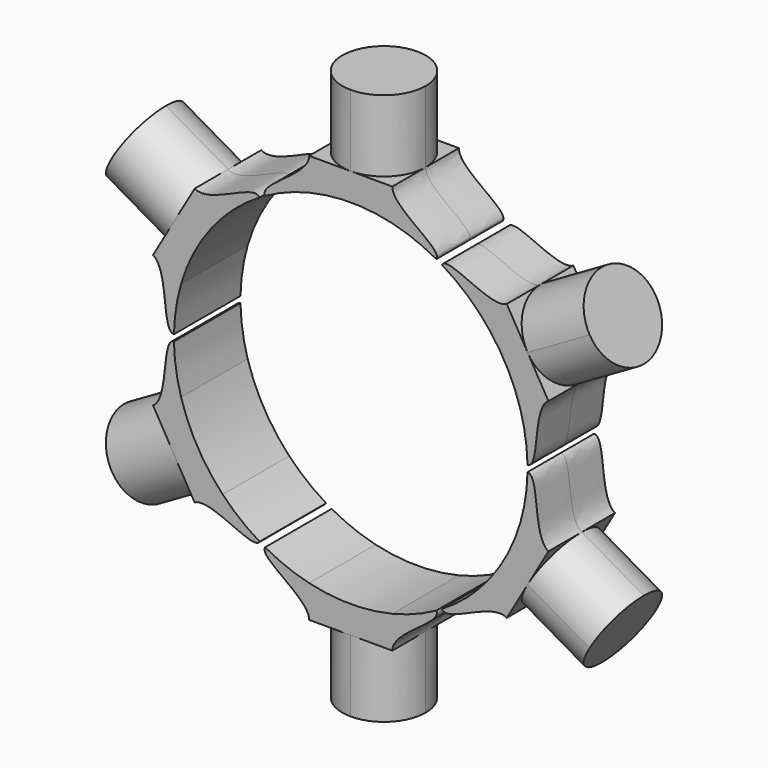
from build123d import *

# Parameters (mm, degrees)
F1_DEPTH  = 6
F3_DEPTH  = 10.323
F6_DEPTH  = 10.323
F8_DEPTH  = 10.323
F9_R      = 6
F10_DEPTH = 10.323
F11_R     = 6
F12_DEPTH = 10.323


with BuildPart() as f1:
    # F0 (on Front) → F1 (new body, symmetric)
    with BuildSketch(Plane.XZ):
        with BuildLine():
            ThreePointArc((-6, 24.7840674628), (0, 25.5), (6, 24.7840674628))
            Line((6, 24.7840674628), (6, 29.4606685638))
            Line((6, 29.4606685638), (-6, 29.4606685638))
            Line((-6, 29.4606685638), (-6, 24.7840674628))
        make_face()
        with BuildLine():
            ThreePointArc((6, 24.7840674628), (9.2589564923, 23.7596659209), (12.3517402257, 22.3088438382))
            add(Edge.make_bspline(
                [(12.3517402257, 22.3088438382), (13.2689820603, 23.877967149), (6, 26.7843715847), (6, 29.4606685638)],
                knots=[0, 0, 0, 0, 9.5652078285, 9.5652078285, 9.5652078285, 9.5652078285], degree=3))
            Line((6, 29.4606685638), (6, 24.7840674628))
        make_face()
        with BuildLine():
            ThreePointArc((-12.3517402257, 22.3088438382), (-9.2589564923, 23.7596659209), (-6, 24.7840674628))
            Line((-6, 24.7840674628), (-6, 29.4606685638))
            add(Edge.make_bspline(
                [(-12.3517402257, 22.3088438382), (-13.2689820603, 23.877967149), (-6, 26.7843715847), (-6, 29.4606685638)],
                knots=[0, 0, 0, 0, 9.5652078285, 9.5652078285, 9.5652078285, 9.5652078285], degree=3))
        make_face()
    extrude(amount=F1_DEPTH, both=True)

    # F2 (on face) → F3 (join)
    with BuildSketch(Plane.XY.offset(29.4606685638)):
        with BuildLine():
            ThreePointArc((0, -6), (4.2426406871, -4.2426406871), (6, 0))
            ThreePointArc((6, 0), (4.2426406871, 4.2426406871), (0, 6))
            ThreePointArc((0, 6), (-4.2426406871, 4.2426406871), (-6, 0))
            ThreePointArc((-6, 0), (-4.2426406871, -4.2426406871), (0, -6))
        make_face()
    extrude(amount=F3_DEPTH)


with BuildPart() as f1b:
    # F0 (on Front) → F1, piece 2 (new body, symmetric)
    with BuildSketch(Plane.XZ):
        with BuildLine():
            add(Edge.make_bspline(
                [(-13.1441553801, 21.8513427355), (-14.0444351117, 23.430259121), (-20.1959462167, 18.588338215), (-22.5136873888, 19.9264867046)],
                knots=[0, 0, 0, 0, 9.5652078285, 9.5652078285, 9.5652078285, 9.5652078285], degree=3))
            Line((-22.5136873888, 19.9264867046), (-18.4636320319, 17.5881861541))
            ThreePointArc((-18.4636320319, 17.5881861541), (-15.9469960268, 19.8983244953), (-13.1441553801, 21.8513427355))
        make_face()
        with BuildLine():
            Line((-18.4636320319, 17.5881861541), (-22.5136873888, 19.9264867046))
            Line((-22.5136873888, 19.9264867046), (-28.5136873888, 9.5341818592))
            Line((-28.5136873888, 9.5341818592), (-24.4636320319, 7.1958813087))
            ThreePointArc((-24.4636320319, 7.1958813087), (-22.0836477965, 12.75), (-18.4636320319, 17.5881861541))
        make_face()
        with BuildLine():
            Line((-24.4636320319, 7.1958813087), (-28.5136873888, 9.5341818592))
            add(Edge.make_bspline(
                [(-25.4958956058, 0.4575011027), (-27.3134171719, 0.447708028), (-26.1959462167, 8.1960333696), (-28.5136873888, 9.5341818592)],
                knots=[0, 0, 0, 0, 9.5652078285, 9.5652078285, 9.5652078285, 9.5652078285], degree=3))
            ThreePointArc((-25.4958956058, 0.4575011027), (-25.2059525191, 3.8613414256), (-24.4636320319, 7.1958813087))
        make_face()
    extrude(amount=F1_DEPTH, both=True)

    # F9 (on face) → F10 (join)
    with BuildSketch(Plane(origin=(-25.5136873888, 0, 14.7303342819), x_dir=(0, -1, 0), z_dir=(-0.8660254038, 0, 0.5))):
        Circle(F9_R)
        with BuildLine():
            ThreePointArc((0, -6), (4.2426406871, -4.2426406871), (6, 0))
            ThreePointArc((6, 0), (4.2426406871, 4.2426406871), (0, 6))
            ThreePointArc((0, 6), (-4.2426406871, 4.2426406871), (-6, 0))
            ThreePointArc((-6, 0), (-4.2426406871, -4.2426406871), (0, -6))
        make_face()
    extrude(amount=F10_DEPTH)


with BuildPart() as f1c:
    # F0 (on Front) → F1, piece 3 (new body, symmetric)
    with BuildSketch(Plane.XZ):
        with BuildLine():
            ThreePointArc((13.1441553801, 21.8513427355), (15.9469960268, 19.8983244953), (18.4636320319, 17.5881861541))
            Line((18.4636320319, 17.5881861541), (22.5136873888, 19.9264867046))
            add(Edge.make_bspline(
                [(13.1441553801, 21.8513427355), (14.0444351117, 23.430259121), (20.1959462167, 18.588338215), (22.5136873888, 19.9264867046)],
                knots=[0, 0, 0, 0, 9.5652078285, 9.5652078285, 9.5652078285, 9.5652078285], degree=3))
        make_face()
        with BuildLine():
            ThreePointArc((18.4636320319, 17.5881861541), (22.0836477965, 12.75), (24.4636320319, 7.1958813087))
            Line((24.4636320319, 7.1958813087), (28.5136873888, 9.5341818592))
            Line((28.5136873888, 9.5341818592), (22.5136873888, 19.9264867046))
            Line((22.5136873888, 19.9264867046), (18.4636320319, 17.5881861541))
        make_face()
        with BuildLine():
            ThreePointArc((24.4636320319, 7.1958813087), (25.2059525191, 3.8613414256), (25.4958956058, 0.4575011027))
            add(Edge.make_bspline(
                [(25.4958956058, 0.4575011027), (27.3134171719, 0.447708028), (26.1959462167, 8.1960333696), (28.5136873888, 9.5341818592)],
                knots=[0, 0, 0, 0, 9.5652078285, 9.5652078285, 9.5652078285, 9.5652078285], degree=3))
            Line((28.5136873888, 9.5341818592), (24.4636320319, 7.1958813087))
        make_face()
    extrude(amount=F1_DEPTH, both=True)

    # F5 (on face) → F6 (join)
    with BuildSketch(Plane(origin=(25.5136873888, 0, 14.7303342819), x_dir=(0, 1, 0), z_dir=(0.8660254038, 0, 0.5))):
        with BuildLine():
            ThreePointArc((0, -6), (4.2426406871, -4.2426406871), (6, 0))
            ThreePointArc((6, 0), (4.2426406871, 4.2426406871), (0, 6))
            ThreePointArc((0, 6), (-4.2426406871, 4.2426406871), (-6, 0))
            ThreePointArc((-6, 0), (-4.2426406871, -4.2426406871), (0, -6))
        make_face()
    extrude(amount=F6_DEPTH)


with BuildPart() as f1d:
    # F0 (on Front) → F1, piece 4 (new body, symmetric)
    with BuildSketch(Plane.XZ):
        with BuildLine():
            add(Edge.make_bspline(
                [(-25.4958956058, -0.4575011027), (-27.3134171719, -0.447708028), (-26.1959462167, -8.1960333696), (-28.5136873888, -9.5341818592)],
                knots=[0, 0, 0, 0, 9.5652078285, 9.5652078285, 9.5652078285, 9.5652078285], degree=3))
            Line((-28.5136873888, -9.5341818592), (-24.4636320319, -7.1958813087))
            ThreePointArc((-24.4636320319, -7.1958813087), (-25.2059525191, -3.8613414256), (-25.4958956058, -0.4575011027))
        make_face()
        with BuildLine():
            Line((-28.5136873888, -9.5341818592), (-22.5136873888, -19.9264867046))
            Line((-22.5136873888, -19.9264867046), (-18.4636320319, -17.5881861541))
            ThreePointArc((-18.4636320319, -17.5881861541), (-22.0836477965, -12.75), (-24.4636320319, -7.1958813087))
            Line((-24.4636320319, -7.1958813087), (-28.5136873888, -9.5341818592))
        make_face()
        with BuildLine():
            Line((-18.4636320319, -17.5881861541), (-22.5136873888, -19.9264867046))
            add(Edge.make_bspline(
                [(-13.1441553801, -21.8513427355), (-14.0444351117, -23.430259121), (-20.1959462167, -18.588338215), (-22.5136873888, -19.9264867046)],
                knots=[0, 0, 0, 0, 9.5652078285, 9.5652078285, 9.5652078285, 9.5652078285], degree=3))
            ThreePointArc((-13.1441553801, -21.8513427355), (-15.9469960268, -19.8983244953), (-18.4636320319, -17.5881861541))
        make_face()
    extrude(amount=F1_DEPTH, both=True)

    # F11 (on face) → F12 (join)
    with BuildSketch(Plane(origin=(-25.5136873888, 0, -14.7303342819), x_dir=(0, -1, 0), z_dir=(-0.8660254038, 0, -0.5))):
        Circle(F11_R)
        with BuildLine():
            ThreePointArc((0, -6), (4.2426406871, -4.2426406871), (6, 0))
            ThreePointArc((6, 0), (4.2426406871, 4.2426406871), (0, 6))
            ThreePointArc((0, 6), (-4.2426406871, 4.2426406871), (-6, 0))
            ThreePointArc((-6, 0), (-4.2426406871, -4.2426406871), (0, -6))
        make_face()
    extrude(amount=F12_DEPTH)


with BuildPart() as f1e:
    # F0 (on Front) → F1, piece 5 (new body, symmetric)
    with BuildSketch(Plane.XZ):
        with BuildLine():
            Line((-6, -29.4606685638), (-6, -24.7840674628))
            ThreePointArc((-6, -24.7840674628), (-9.2589564923, -23.7596659209), (-12.3517402257, -22.3088438382))
            add(Edge.make_bspline(
                [(-12.3517402257, -22.3088438382), (-13.2689820603, -23.877967149), (-6, -26.7843715847), (-6, -29.4606685638)],
                knots=[0, 0, 0, 0, 9.5652078285, 9.5652078285, 9.5652078285, 9.5652078285], degree=3))
        make_face()
        with BuildLine():
            Line((6, -29.4606685638), (6, -24.7840674628))
            ThreePointArc((6, -24.7840674628), (0, -25.5), (-6, -24.7840674628))
            Line((-6, -24.7840674628), (-6, -29.4606685638))
            Line((-6, -29.4606685638), (6, -29.4606685638))
        make_face()
        with BuildLine():
            add(Edge.make_bspline(
                [(12.3517402257, -22.3088438382), (13.2689820603, -23.877967149), (6, -26.7843715847), (6, -29.4606685638)],
                knots=[0, 0, 0, 0, 9.5652078285, 9.5652078285, 9.5652078285, 9.5652078285], degree=3))
            ThreePointArc((12.3517402257, -22.3088438382), (9.2589564923, -23.7596659209), (6, -24.7840674628))
            Line((6, -24.7840674628), (6, -29.4606685638))
        make_face()
    extrude(amount=F1_DEPTH, both=True)

    # F4: F1 across plane
    add(f1.part.mirror(Plane.XY))


with BuildPart() as f1f:
    # F0 (on Front) → F1, piece 6 (new body, symmetric)
    with BuildSketch(Plane.XZ):
        with BuildLine():
            Line((22.5136873888, -19.9264867046), (18.4636320319, -17.5881861541))
            ThreePointArc((18.4636320319, -17.5881861541), (15.9469960268, -19.8983244953), (13.1441553801, -21.8513427355))
            add(Edge.make_bspline(
                [(13.1441553801, -21.8513427355), (14.0444351117, -23.430259121), (20.1959462167, -18.588338215), (22.5136873888, -19.9264867046)],
                knots=[0, 0, 0, 0, 9.5652078285, 9.5652078285, 9.5652078285, 9.5652078285], degree=3))
        make_face()
        with BuildLine():
            Line((28.5136873888, -9.5341818592), (24.4636320319, -7.1958813087))
            ThreePointArc((24.4636320319, -7.1958813087), (22.0836477965, -12.75), (18.4636320319, -17.5881861541))
            Line((18.4636320319, -17.5881861541), (22.5136873888, -19.9264867046))
            Line((22.5136873888, -19.9264867046), (28.5136873888, -9.5341818592))
        make_face()
        with BuildLine():
            add(Edge.make_bspline(
                [(25.4958956058, -0.4575011027), (27.3134171719, -0.447708028), (26.1959462167, -8.1960333696), (28.5136873888, -9.5341818592)],
                knots=[0, 0, 0, 0, 9.5652078285, 9.5652078285, 9.5652078285, 9.5652078285], degree=3))
            ThreePointArc((25.4958956058, -0.4575011027), (25.2059525191, -3.8613414256), (24.4636320319, -7.1958813087))
            Line((24.4636320319, -7.1958813087), (28.5136873888, -9.5341818592))
        make_face()
    extrude(amount=F1_DEPTH, both=True)

    # F7 (on face) → F8 (join)
    with BuildSketch(Plane(origin=(25.5136873888, 0, -14.7303342819), x_dir=(0, 1, 0), z_dir=(0.8660254038, 0, -0.5))):
        with BuildLine():
            ThreePointArc((0, -6), (4.2426406871, -4.2426406871), (6, 0))
            ThreePointArc((6, 0), (4.2426406871, 4.2426406871), (0, 6))
            ThreePointArc((0, 6), (-4.2426406871, 4.2426406871), (-6, 0))
            ThreePointArc((-6, 0), (-4.2426406871, -4.2426406871), (0, -6))
        make_face()
    extrude(amount=F8_DEPTH)


solid = Compound([f1.part, f1b.part, f1c.part, f1d.part, f1e.part, f1f.part])
